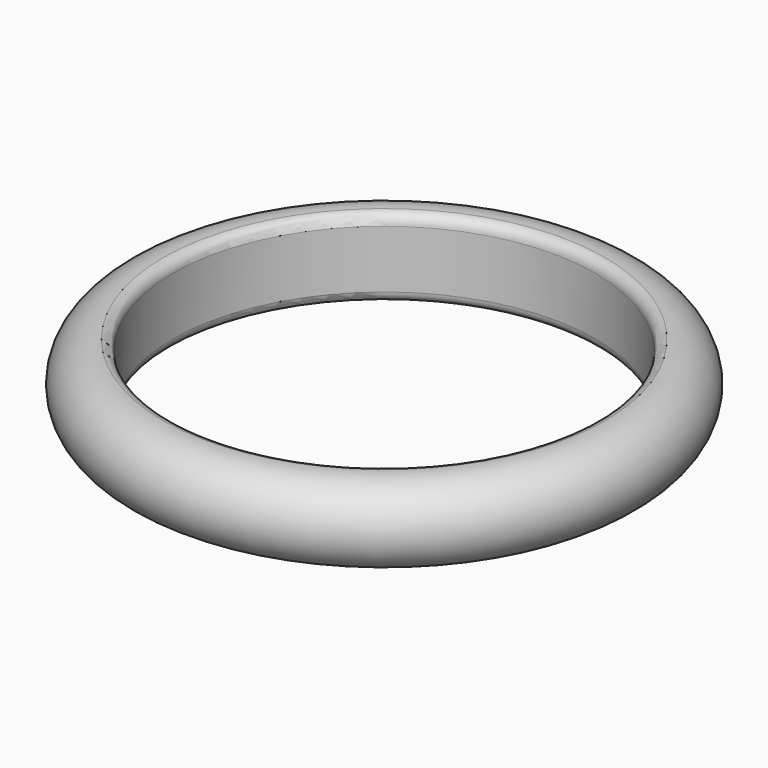
from build123d import *


with BuildPart() as f1:
    # F0 (on Front) → F1 (revolve)
    with BuildSketch(Plane.XZ):
        with BuildLine():
            ThreePointArc((0.5, 1.095445), (0.39542, 1.365125), (0.136364, 1.493789))
            ThreePointArc((0.136364, 1.493789), (-1.5, 0), (0.136364, -1.493789))
            ThreePointArc((0.136364, -1.493789), (0.39542, -1.365125), (0.5, -1.095445))
            Line((0.5, -1.095445), (0.5, 1.095445))
        make_face()
    revolve(axis=Axis((8.5, 0, -1.563579), (0, 0, -1)))


solid = f1.part
